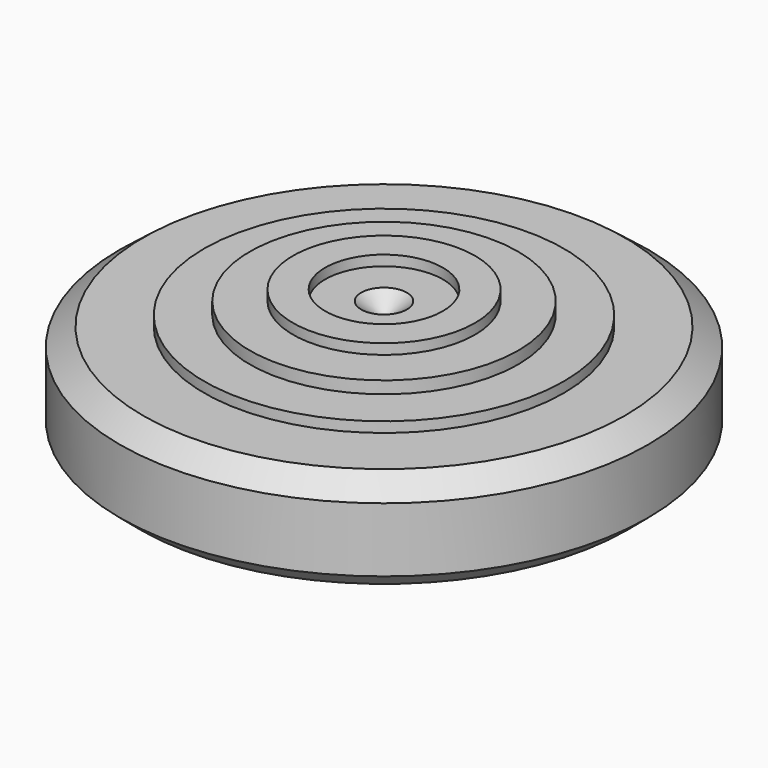
from build123d import *


with BuildPart() as f1:
    # F0 (on Front) → F1 (revolve)
    with BuildSketch(Plane.XZ):
        Polygon((64.421296, -7.356068), (41.684367, -7.356068), (41.684367, -45.696769), (41.684367, -49.709167), (41.684367, -58.179785), (64.421296, -58.179785), (64.421296, -49.709167), align=None)
        Polygon((63.083835, 51.938269), (63.083835, 17.164147), (92.062272, 17.164147), (92.953913, 43.467648), (92.953913, 51.938269), align=None)
        Polygon((92.953913, 43.467648), (92.062272, 17.164147), (106.328569, 17.164147), (115.358189, 6.462383), (123.450934, 6.462383), (124.607272, 36.334496), (124.607272, 43.467648), align=None)
        Polygon((123.450934, 6.462383), (115.358189, 6.462383), (106.328569, -7.356068), (89.833163, -7.356068), (89.833163, -40.346902), (121.932343, -40.346902), (121.932343, -32.767929), align=None)
        Polygon((183.009967, 6.462383), (123.450934, 6.462383), (121.932343, -32.767929), (168.74367, -32.767929), (183.009967, -20.730732), align=None)
        Polygon((89.833163, -7.356068), (64.421296, -7.356068), (64.421296, -49.709167), (89.833163, -49.709167), (89.833163, -40.346902), align=None)
        Polygon((40.792722, 17.164147), (0, 17.164147), (0, 8.693527), (92.062272, 8.693527), (99.641241, 5.12695), (91.170624, 0), (0, 0), (0, -7.356068), (41.684367, -7.356068), (64.421296, -7.356068), (89.833163, -7.356068), (106.328569, -7.356068), (115.358189, 6.462383), (106.328569, 17.164147), (92.062272, 17.164147), (63.083835, 17.164147), align=None)
        Polygon((40.792722, 51.938269), (40.792722, 17.164147), (63.083835, 17.164147), (63.083835, 51.938269), (63.083835, 59.071422), (40.792722, 59.071422), align=None)
        Polygon((124.607272, 36.334496), (123.450934, 6.462383), (183.009967, 6.462383), (183.009967, 23.851477), (166.960374, 36.334496), align=None)
        Polygon((92.062272, 8.693527), (0, 8.693527), (0, 0), (91.170624, 0), (99.641241, 5.12695), align=None)
        Polygon((41.684367, -7.356068), (0, -7.356068), (0, -39.901081), (15.826687, -49.709167), (41.684367, -49.709167), (41.684367, -45.696769), align=None)
        Polygon((15.826687, 51.938269), (0, 39.901074), (0, 17.164147), (40.792722, 17.164147), (40.792722, 51.938269), align=None)
    revolve(axis=Axis((0, 0, -4e-06), (0, 0, -1)))


solid = f1.part
